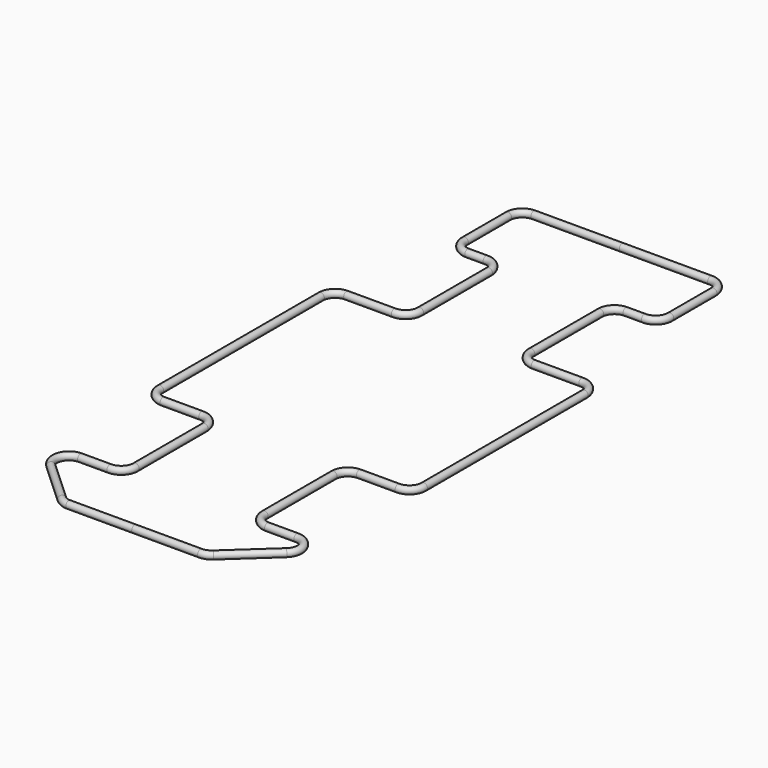
from build123d import *

# Parameters (mm, degrees)
F1_R = 1.5875


with BuildPart() as f2:
    # F2: sweep along a path in F0
    with BuildLine(Plane.XY) as f2_path:
        Line((0, 0), (29.1550066322, 0))
        ThreePointArc((29.1550066322, 0), (31.4618605968, 0.4338420587), (33.4534987273, 1.6760866815))
        Line((33.4534987273, 1.6760866815), (52.142905763, 18.8643105382))
        ThreePointArc((52.142905763, 18.8643105382), (53.7605716092, 25.8450778213), (47.8444136679, 29.8882238567))
        Line((47.8444136679, 29.8882238567), (34.8972552823, 29.8882238567))
        ThreePointArc((34.8972552823, 29.8882238567), (30.4071272218, 31.7480957962), (28.5472552823, 36.2382238567))
        Line((28.5472552823, 36.2382238567), (28.5472552823, 74.3382238567))
        ThreePointArc((28.5472552823, 74.3382238567), (30.4071272218, 78.8283519172), (34.8972552823, 80.6882238567))
        Line((34.8972552823, 80.6882238567), (52.0162506063, 80.6882238567))
        ThreePointArc((52.0162506063, 80.6882238567), (56.5063786668, 82.5480957962), (58.3662506063, 87.0382238567))
        Line((58.3662506063, 87.0382238567), (58.3662506063, 175.9382238567))
        ThreePointArc((58.3662506063, 175.9382238567), (56.5063786668, 180.4283519172), (52.0162506063, 182.2882238567))
        Line((52.0162506063, 182.2882238567), (30.963758184, 182.2882238567))
        ThreePointArc((30.963758184, 182.2882238567), (26.4736301235, 184.1480957962), (24.613758184, 188.6382238567))
        Line((24.613758184, 188.6382238567), (24.613758184, 226.7382238567))
        ThreePointArc((24.613758184, 226.7382238567), (26.4736301235, 231.2283519172), (30.963758184, 233.0882238567))
        Line((30.963758184, 233.0882238567), (39.0831279689, 233.0882238567))
        ThreePointArc((39.0831279689, 233.0882238567), (43.5732560294, 234.9480957962), (45.4331279689, 239.4382238567))
        Line((45.4331279689, 239.4382238567), (45.4331279689, 263.3631222496))
        ThreePointArc((45.4331279689, 263.3631222496), (43.5732560294, 267.8532503101), (39.0831279689, 269.7131222496))
        Line((39.0831279689, 269.7131222496), (0, 269.7131222496))
    # F1 (on Right) → F2 (sweep)
    with BuildSketch(Plane.YZ):
        Circle(F1_R)
    sweep(path=f2_path.line)

    # F3: F2 across plane


with BuildPart() as f2_1:
    add(f2.part)
    add(f2.part.mirror(Plane.YZ))


solid = f2_1.part
